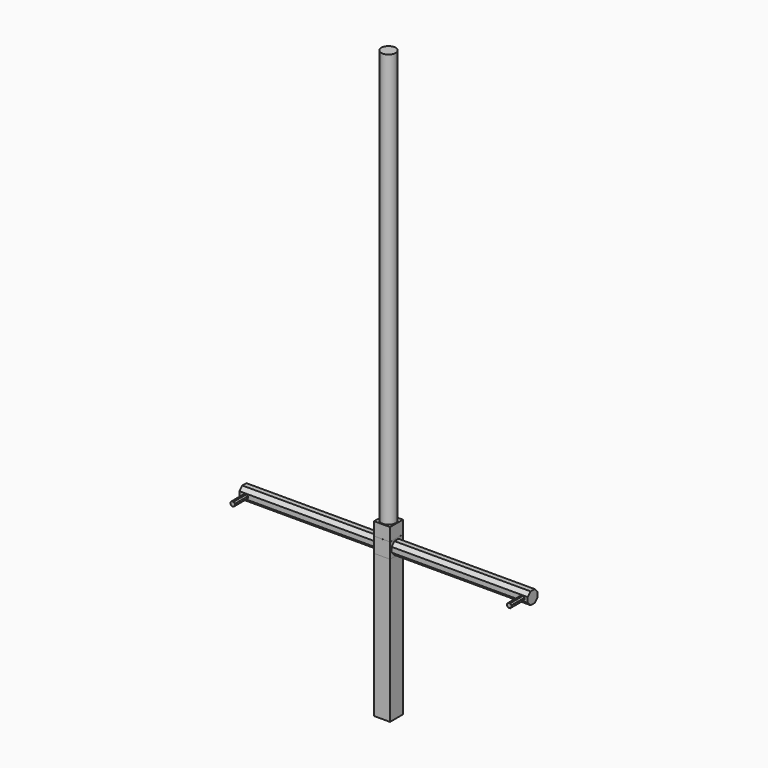
from build123d import *

# Parameters (mm, degrees)
F0_R      = 67.143396
F1_DEPTH  = 4495.8
F2_W      = 148.875386
F2_H      = 150.065542
F3_DEPTH  = 635
F5_W      = 149.71362
F5_H      = 150.527284
F6_DEPTH  = 142.24
F8_DEPTH  = 1270
F10_DEPTH = 1270
F13_DEPTH = 152.4
F3_FACE_W = 148.875386
F3_FACE_H = 150.065542
F14_DEPTH = 965.2


with BuildPart() as f1:
    # F0 (on Top) → F1 (new body)
    with BuildSketch(Plane.XY):
        Circle(F0_R)
    extrude(amount=F1_DEPTH)

    # F2 (on Top) → F3 (join)
    with BuildSketch(Plane.XY):
        Rectangle(F2_W, F2_H)
    extrude(amount=F3_DEPTH)

    # F5 (on offset) → F6 (join)
    with BuildSketch(Plane.XY.offset(370.84)):
        Rectangle(F5_W, F5_H)
    extrude(amount=F6_DEPTH)

    # F7 (on face) → F8 (join)
    with BuildSketch(Plane.YZ.offset(74.85681)):
        Polygon((23.602132, 498.940587), (-23.602132, 498.940587), (-56.980587, 465.562132), (-56.980587, 418.357868), (-23.602132, 384.979413), (23.602132, 384.979413), (56.980587, 418.357868), (56.980587, 465.562132), align=None)
    extrude(amount=F8_DEPTH)

    # F9 (on face) → F10 (join)
    with BuildSketch(Plane(origin=(-74.85681, 0, 0), x_dir=(0, -1, 0), z_dir=(-1, 0, 0))):
        Polygon((23.602132, 494.192205), (-23.602132, 494.192205), (-56.980587, 460.81375), (-56.980587, 413.609486), (-23.602132, 380.231031), (23.602132, 380.231031), (56.980587, 413.609486), (56.980587, 460.81375), align=None)
    extrude(amount=F10_DEPTH)

    # F11 (on face) + F12 (on face) → F13 (join)
    with BuildSketch(Plane.XZ.offset(56.980587)):
        Polygon((-1277.785911, 457.544433), (-1294.61955, 457.518803), (-1306.504608, 445.597499), (-1306.478977, 428.76386), (-1294.557674, 416.878803), (-1277.724034, 416.904433), (-1265.838977, 428.825737), (-1265.864608, 445.659376), align=None)
    with BuildSketch(Plane.XZ.offset(56.980587)):
        Polygon((1314.37681, 433.54318), (1314.37681, 450.37682), (1302.47363, 462.28), (1285.639991, 462.28), (1273.73681, 450.37682), (1273.73681, 433.54318), (1285.639991, 421.64), (1302.47363, 421.64), align=None)
    extrude(amount=F13_DEPTH)

    # F3_face (on face) → F14 (join)
    with BuildSketch(Plane(origin=(0, 0, 0), x_dir=(1, 0, 0), z_dir=(0, 0, -1))):
        Rectangle(F3_FACE_W, F3_FACE_H)
    extrude(amount=F14_DEPTH)


solid = f1.part
